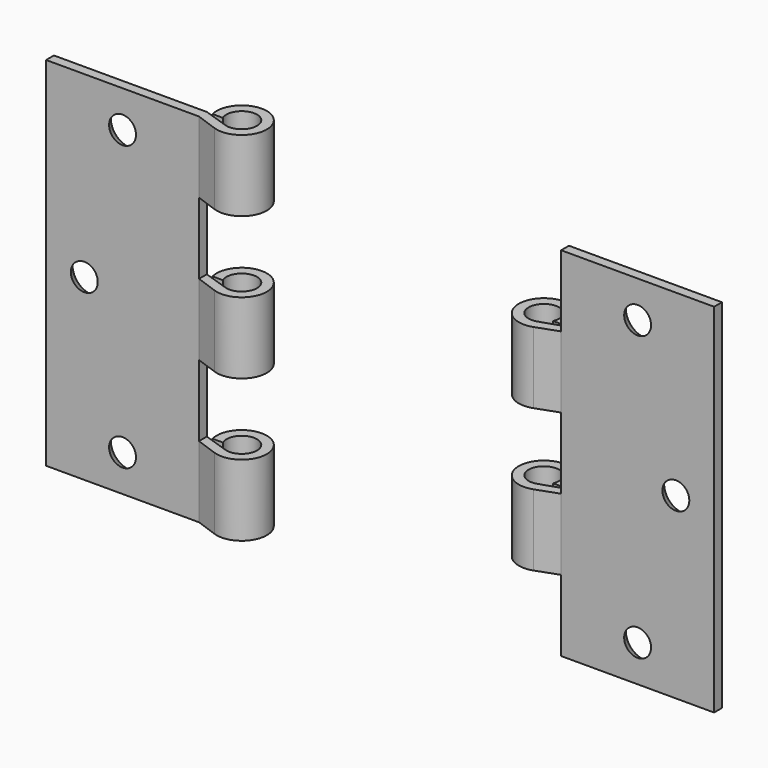
from build123d import *

# Parameters (mm, degrees)
F1_DEPTH  = 292
F2_R      = 16
F3_R      = 11
F10_DEPTH = 50
F11_W     = 58.2078508139
F11_H     = 58.4
F11_W_2   = 55.7445994616
F12_DEPTH = 50


with BuildPart() as f1:
    # F0 (on Top) → F1 (new body)
    with BuildSketch(Plane.XY):
        with BuildLine():
            Line((-125, 0), (0, 0))
            Line((0, 0), (17.5874304335, -6.2993881247))
            ThreePointArc((17.5874304335, -6.2993881247), (39.6852087826, 26.7716895924), (4.6191046479, 8))
            Line((4.6191046479, 8), (13.0435607626, 8))
            ThreePointArc((13.0435607626, 8), (32.9352692932, 22.2247618913), (20.5422238932, 1.1431029233))
            Line((20.5422238932, 1.1431029233), (0, 8))
            Line((0, 8), (-125, 8))
            Line((-125, 8), (-125, 0))
        make_face()
    extrude(amount=F1_DEPTH)

    # F2 (on face) → F4 section 0
    with BuildSketch(Plane(origin=(0, 8, 0), x_dir=(-1, 0, 0), z_dir=(0, 1, 0))):
        with Locations((62.5, 30)):
            Circle(F2_R)
    # F3 (on face) → F4 section 1
    with BuildSketch(Plane.XZ):
        with Locations((-62.5, 30)):
            Circle(F3_R)
    loft(mode=Mode.SUBTRACT)

    # F2 (on face) → F5 section 0
    with BuildSketch(Plane(origin=(0, 8, 0), x_dir=(-1, 0, 0), z_dir=(0, 1, 0))):
        with Locations((93.75, 146)):
            Circle(F2_R)
    # F3 (on face) → F5 section 1
    with BuildSketch(Plane.XZ):
        with Locations((-93.75, 146)):
            Circle(F3_R)
    loft(mode=Mode.SUBTRACT)

    # F2 (on face) → F6 section 0
    with BuildSketch(Plane(origin=(0, 8, 0), x_dir=(-1, 0, 0), z_dir=(0, 1, 0))):
        with Locations((62.5, 262)):
            Circle(F2_R)
    # F3 (on face) → F6 section 1
    with BuildSketch(Plane.XZ):
        with Locations((-62.5, 262)):
            Circle(F3_R)
    loft(mode=Mode.SUBTRACT)


with BuildPart() as f8_1:
    # F8: instance of F1
    add(f1.part.mirror(Plane.YZ.offset(148)))

    # F11 (on face) → F12 (cut, symmetric)
    with BuildSketch(Plane(origin=(0, 8, 0), x_dir=(-1, 0, 0), z_dir=(0, 1, 0))):
        with Locations((-266.8960745931, 262.8)):
            Rectangle(F11_W, F11_H)
        with Locations((-268.1277002692, 146)):
            Rectangle(F11_W_2, F11_H)
        Polygon((-296, 58.4), (-296, 0), (-240.2948439121, 0), (-234.1786623001, 0), (-234.1786623001, 58.4), (-240.2554005384, 58.4), align=None)
    extrude(amount=F12_DEPTH, both=True, mode=Mode.SUBTRACT)


with BuildPart() as f1_1:
    add(f1.part)

    # F9 (on face) → F10 (cut, symmetric)
    with BuildSketch(Plane(origin=(0, 8, 0), x_dir=(-1, 0, 0), z_dir=(0, 1, 0))):
        Polygon((-56.8476691842, 175.2), (0, 175.2), (0, 233.6), (-57.3937855661, 233.6), (-57.3937855661, 175.2), align=None)
        Polygon((-56.8476691842, 58.4), (0, 58.4), (0, 116.8), (-56.8476691842, 116.8), (-63.7657642365, 116.8), (-63.7657642365, 58.4), align=None)
    extrude(amount=F10_DEPTH, both=True, mode=Mode.SUBTRACT)


solid = Compound([f8_1.part, f1_1.part])
